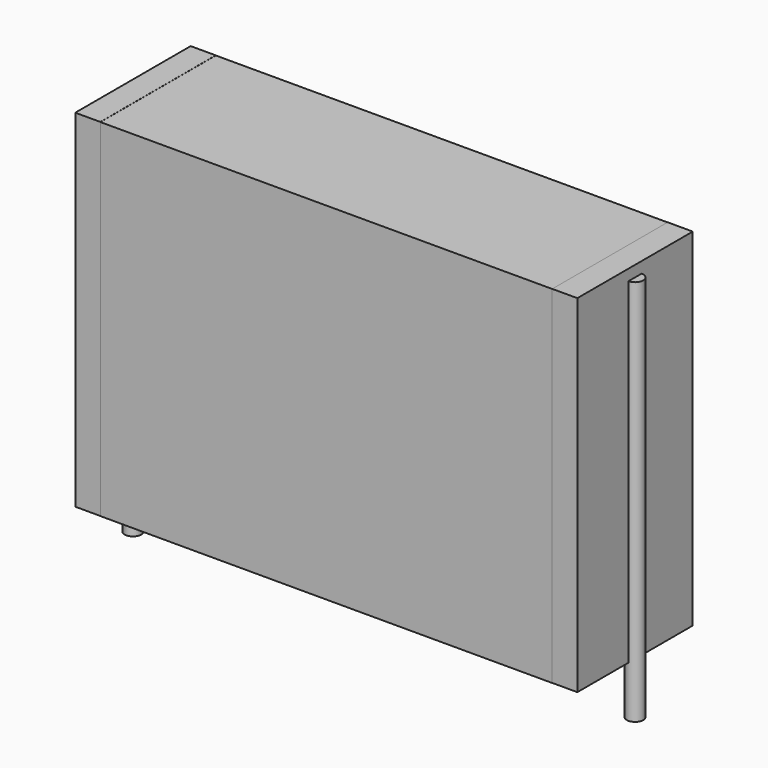
from build123d import *

# Parameters (mm, degrees)
SKETCH_W          = 24.75
SKETCH_H          = 7.9
PAD_DEPTH         = 19
SKETCH001_R       = 0.45
PAD001_DEPTH      = 18
PAD001_DEPTH_BACK = 3.2
SKETCH002_W       = 1.375
SKETCH002_H       = 7.9
PAD002_DEPTH      = 19


with BuildPart() as pad:
    # Sketch → Pad (new body)
    with BuildSketch(Plane.XY.offset(0.1)):
        with Locations((13.75, 0)):
            Rectangle(SKETCH_W, SKETCH_H)
    extrude(amount=PAD_DEPTH)


with BuildPart() as pad001:
    # Sketch001 → Pad001 (new body, two sides)
    with BuildSketch(Plane.XY.offset(0.5)) as pad001_sk:
        Circle(SKETCH001_R)
        with Locations((27.5, 0)):
            Circle(SKETCH001_R)
    extrude(amount=PAD001_DEPTH)
    extrude(pad001_sk.sketch, amount=-PAD001_DEPTH_BACK)


with BuildPart() as pad002:
    # Sketch002 → Pad002 (new body)
    with BuildSketch(Plane.XY.offset(0.105)):
        with Locations((0.6875, 0)):
            Rectangle(SKETCH002_W, SKETCH002_H)
        with Locations((26.8125, 0)):
            Rectangle(SKETCH002_W, SKETCH002_H)
    extrude(amount=PAD002_DEPTH)


solid = Compound([pad.part, pad001.part, pad002.part])
